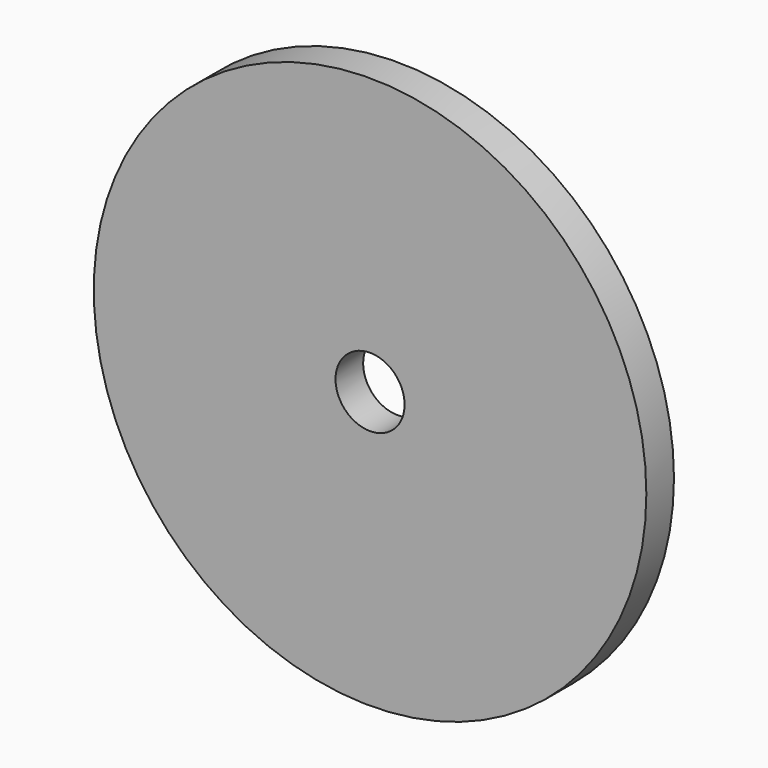
from build123d import *

# Parameters (mm, degrees)
F0_R     = 12.7
F1_DEPTH = 1.5875
F3_D     = 3.175
F3_DEPTH = 6.35


with BuildPart() as f1:
    # F0 (on Front) → F1 (new body)
    with BuildSketch(Plane.XZ):
        Circle(F0_R)
    extrude(amount=F1_DEPTH)

    # F3
    with Locations(Plane.XZ.offset(1.5875)):
        with Locations((0, 0)):
            Hole(F3_D / 2, depth=F3_DEPTH)


solid = f1.part
